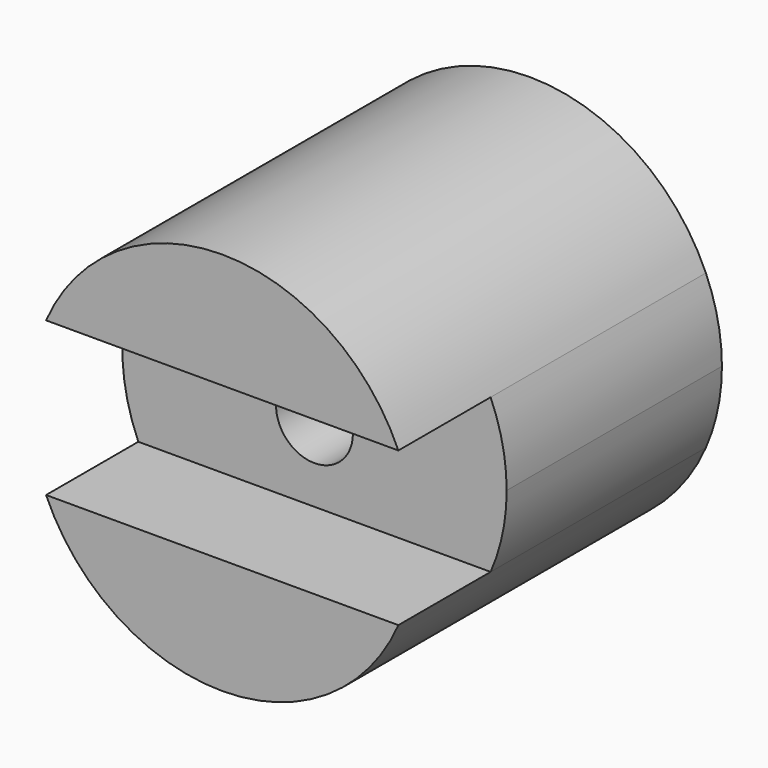
from build123d import *

# Parameters (mm, degrees)
F1_DEPTH = 40
F0_R     = 4
F2_DEPTH = 28


with BuildPart() as f1:
    # F0 (on Front) → F1 (new body)
    with BuildSketch(Plane.XZ):
        with BuildLine():
            Line((-70.2355, 53.79361), (-33.574894, 53.79361))
            ThreePointArc((-33.574894, 53.79361), (-51.905197, 65.79361), (-70.2355, 53.79361))
        make_face()
        with BuildLine():
            ThreePointArc((-70.2355, 37.79361), (-51.905197, 25.79361), (-33.574894, 37.79361))
            Line((-33.574894, 37.79361), (-70.2355, 37.79361))
        make_face()
    extrude(amount=F1_DEPTH)

    # F0 (on Front) → F2 (join)
    with BuildSketch(Plane.XZ):
        with BuildLine():
            ThreePointArc((-33.574894, 37.79361), (-32.32707, 41.707417), (-31.905197, 45.79361))
            ThreePointArc((-31.905197, 45.79361), (-32.32707, 49.879803), (-33.574894, 53.79361))
            Line((-33.574894, 53.79361), (-70.2355, 53.79361))
            ThreePointArc((-70.2355, 53.79361), (-71.905197, 45.79361), (-70.2355, 37.79361))
            Line((-70.2355, 37.79361), (-33.574894, 37.79361))
        make_face()
        with Locations((-51.905197, 45.79361)):
            Circle(F0_R, mode=Mode.SUBTRACT)
        with BuildLine():
            Line((-70.2355, 53.79361), (-33.574894, 53.79361))
            ThreePointArc((-33.574894, 53.79361), (-51.905197, 65.79361), (-70.2355, 53.79361))
        make_face()
        with BuildLine():
            ThreePointArc((-70.2355, 37.79361), (-51.905197, 25.79361), (-33.574894, 37.79361))
            Line((-33.574894, 37.79361), (-70.2355, 37.79361))
        make_face()
    extrude(amount=F2_DEPTH)


solid = f1.part
